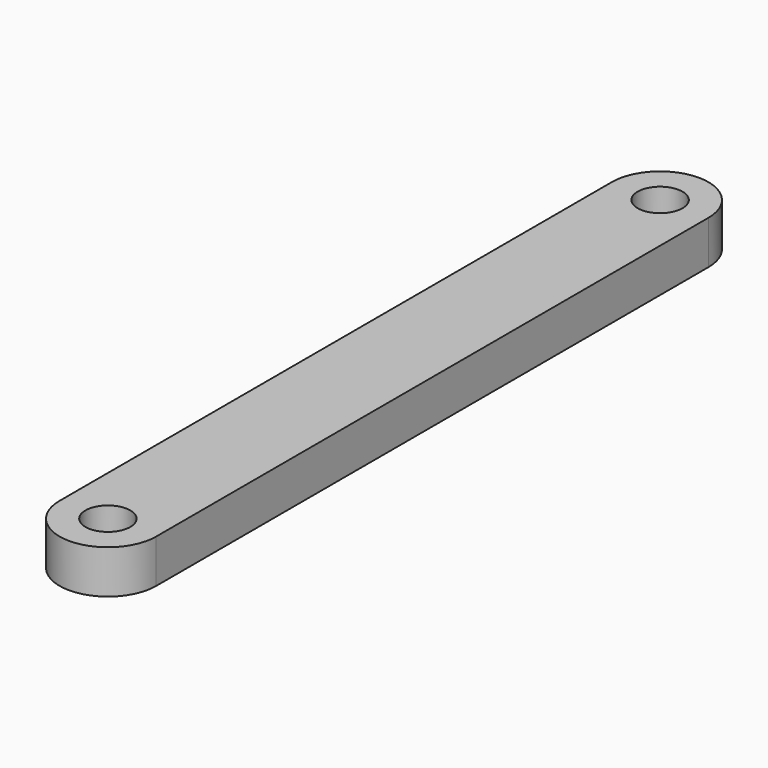
from build123d import *

# Parameters (mm, degrees)
SKETCH_R  = 3.25
PAD_DEPTH = 6.3


with BuildPart() as part:
    # Sketch (on XY_Plane of Origin) → Pad (new body)
    with BuildSketch(Plane.XY):
        with BuildLine():
            ThreePointArc((7, 100), (0, 107), (-7, 100))
            Line((-7, 100), (-7, 0))
            ThreePointArc((-7, 0), (0, -7), (7, 0))
            Line((7, 100), (7, 0))
        make_face()
        Circle(SKETCH_R, mode=Mode.SUBTRACT)
        with Locations((0, 100)):
            Circle(SKETCH_R, mode=Mode.SUBTRACT)
    extrude(amount=PAD_DEPTH)


solid = part.part
